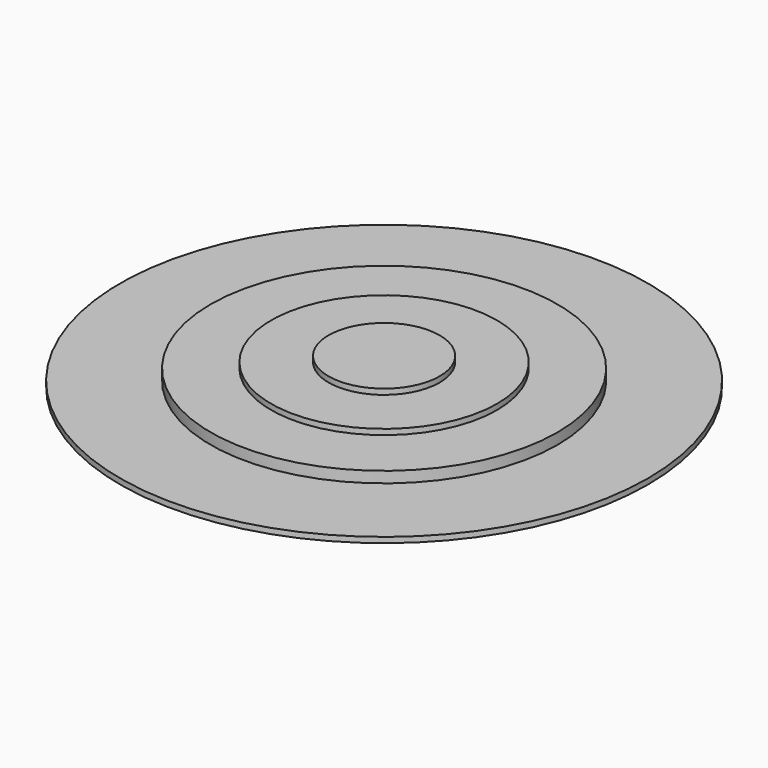
from build123d import *

# Parameters (mm, degrees)
F0_R     = 47.875264
F1_DEPTH = 1
F2_R     = 31.457389
F3_DEPTH = 3
F4_R     = 20.49811
F5_DEPTH = 4
F6_R     = 10.07473
F7_DEPTH = 5


with BuildPart() as f1:
    # F0 (on Top) → F1 (new body)
    with BuildSketch(Plane.XY):
        Circle(F0_R)
    extrude(amount=F1_DEPTH)

    # F2 (on Top) → F3 (join)
    with BuildSketch(Plane.XY):
        Circle(F2_R)
    extrude(amount=F3_DEPTH)

    # F4 (on Top) → F5 (join)
    with BuildSketch(Plane.XY):
        Circle(F4_R)
    extrude(amount=F5_DEPTH)

    # F6 (on Top) → F7 (join)
    with BuildSketch(Plane.XY):
        Circle(F6_R)
    extrude(amount=F7_DEPTH)


solid = f1.part
